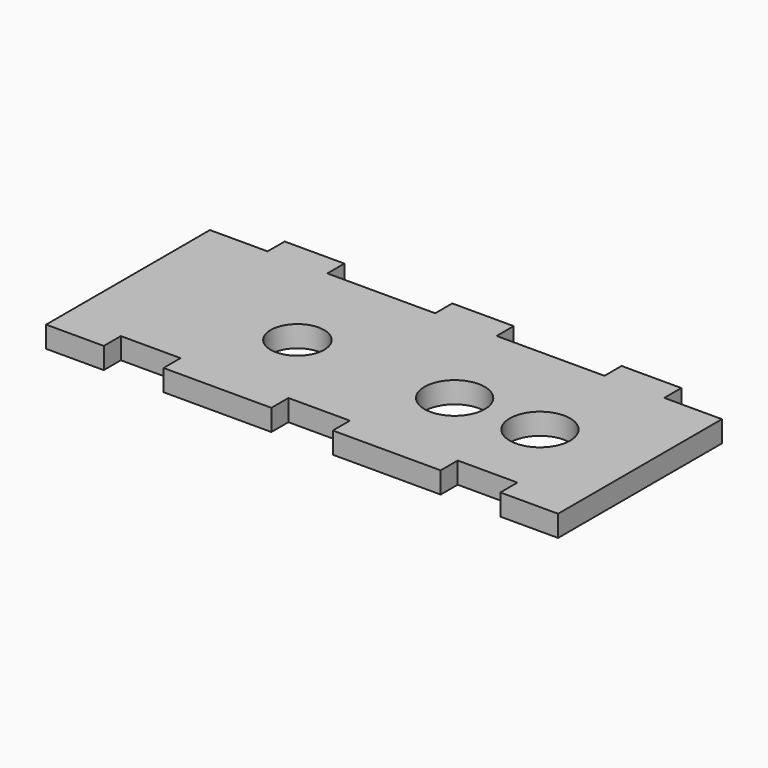
from build123d import *

# Parameters (mm, degrees)
F0_W     = 8.89
F0_H     = 3.175
F0_W_2   = 9.144
F1_DEPTH = 3.175
F2_R     = 3.9878
F2_R_2   = 4.4958
F3_DEPTH = 25.4


with BuildPart() as f1:
    # F0 (on Top) → F1 (new body)
    with BuildSketch(Plane.XY):
        with Locations((-25.0698, 16.8275)):
            Rectangle(F0_W, F0_H)
        Polygon((-29.5148, 15.24), (-38.1, 15.24), (-38.1, -15.24), (-29.5148, -15.24), (-29.5148, -12.065), (-20.6248, -12.065), (-20.6248, -15.24), (-4.572, -15.24), (-4.572, -12.065), (4.572, -12.065), (4.572, -15.24), (20.6248, -15.24), (20.6248, -12.065), (29.5148, -12.065), (29.5148, -15.24), (38.1, -15.24), (38.1, 15.24), (29.5148, 15.24), (20.6248, 15.24), (4.572, 15.24), (-4.572, 15.24), (-20.6248, 15.24), align=None)
        with Locations((0, 16.8275)):
            Rectangle(F0_W_2, F0_H)
        with Locations((25.0698, 16.8275)):
            Rectangle(F0_W, F0_H)
    extrude(amount=F1_DEPTH)

    # F2 (on face) → F3 (cut)
    with BuildSketch(Plane.XY.offset(3.175)):
        with Locations((-12.8858196329, 0)):
            Circle(F2_R)
        with Locations((10.5130393058, 0)):
            Circle(F2_R_2)
        with Locations((23.2130393058, 0)):
            Circle(F2_R_2)
    extrude(amount=-F3_DEPTH, mode=Mode.SUBTRACT)


solid = f1.part
